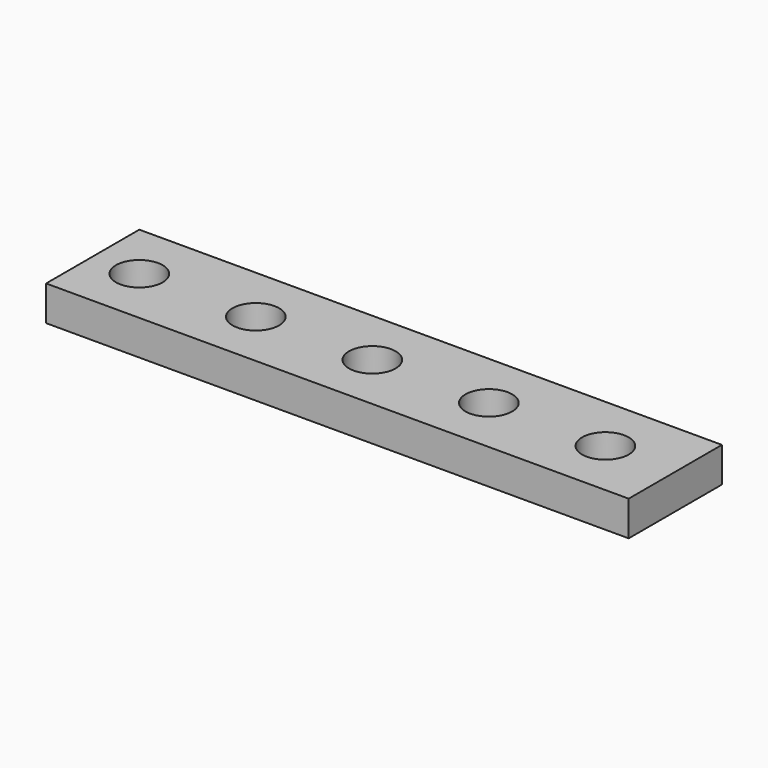
from build123d import *

# Parameters (mm, degrees)
CYLINDER004_R     = 2
CYLINDER004_DEPTH = 10
CYLINDER003_R     = 2
CYLINDER003_DEPTH = 10
CYLINDER002_R     = 2
CYLINDER002_DEPTH = 10
CYLINDER001_R     = 2
CYLINDER001_DEPTH = 10
CYLINDER_R        = 2
CYLINDER_DEPTH    = 10
BOX_W             = 50
BOX_H             = 10
BOX_DEPTH         = 3


with BuildPart() as cylinder004:
    # Cylinder004 → Cylinder004 (new body)
    with BuildSketch(Plane(origin=(44, 5, -3), x_dir=(1, 0, 0), z_dir=(0, 0, 1))):
        Circle(CYLINDER004_R)
    extrude(amount=CYLINDER004_DEPTH)


with BuildPart() as cylinder003:
    # Cylinder003 → Cylinder003 (new body)
    with BuildSketch(Plane(origin=(34, 5, -3), x_dir=(1, 0, 0), z_dir=(0, 0, 1))):
        Circle(CYLINDER003_R)
    extrude(amount=CYLINDER003_DEPTH)


with BuildPart() as cylinder002:
    # Cylinder002 → Cylinder002 (new body)
    with BuildSketch(Plane(origin=(24, 5, -3), x_dir=(1, 0, 0), z_dir=(0, 0, 1))):
        Circle(CYLINDER002_R)
    extrude(amount=CYLINDER002_DEPTH)


with BuildPart() as cylinder001:
    # Cylinder001 → Cylinder001 (new body)
    with BuildSketch(Plane(origin=(14, 5, -3), x_dir=(1, 0, 0), z_dir=(0, 0, 1))):
        Circle(CYLINDER001_R)
    extrude(amount=CYLINDER001_DEPTH)


with BuildPart() as cylinder:
    # Cylinder → Cylinder (new body)
    with BuildSketch(Plane(origin=(4, 5, -3), x_dir=(1, 0, 0), z_dir=(0, 0, 1))):
        Circle(CYLINDER_R)
    extrude(amount=CYLINDER_DEPTH)


with BuildPart() as cut004:
    # Box → Box (new body)
    with BuildSketch(Plane.XY):
        with Locations((25, 5)):
            Rectangle(BOX_W, BOX_H)
    extrude(amount=BOX_DEPTH)

    # Cut: cut Cylinder
    add(cylinder.part, mode=Mode.SUBTRACT)

    # Cut001: cut Cylinder001
    add(cylinder001.part, mode=Mode.SUBTRACT)

    # Cut002: cut Cylinder002
    add(cylinder002.part, mode=Mode.SUBTRACT)

    # Cut003: cut Cylinder003
    add(cylinder003.part, mode=Mode.SUBTRACT)

    # Cut004: cut Cylinder004
    add(cylinder004.part, mode=Mode.SUBTRACT)


solid = cut004.part
